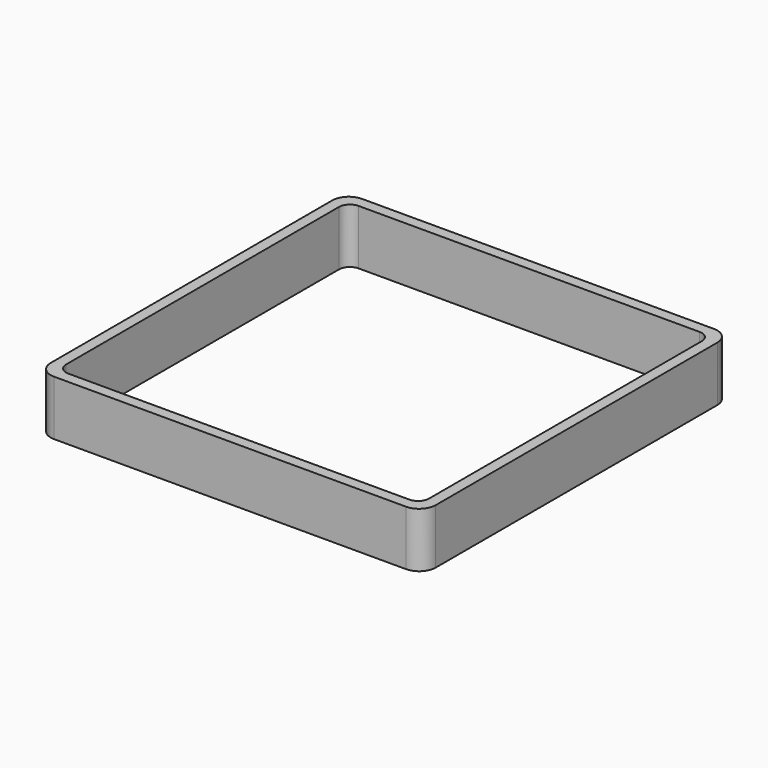
from build123d import *

# Parameters (mm, degrees)
EXTRUDE_DEPTH = 50


with BuildPart() as part:
    # Sketch → Extrude (new body)
    with BuildSketch(Plane.XY):
        with BuildLine():
            Line((-160, 175), (160, 175))
            ThreePointArc((175, 160), (170.606602, 170.606602), (160, 175))
            Line((175, 160), (175, -160))
            ThreePointArc((160, -175), (170.606602, -170.606602), (175, -160))
            Line((160, -175), (-160, -175))
            ThreePointArc((-175, -160), (-170.606602, -170.606602), (-160, -175))
            Line((-175, -160), (-175, 160))
            ThreePointArc((-160, 175), (-170.606602, 170.606602), (-175, 160))
        make_face()
        with BuildLine():
            Line((-155, 165), (155, 165))
            ThreePointArc((165, 155), (162.071068, 162.071068), (155, 165))
            Line((165, 155), (165, -155))
            ThreePointArc((155, -165), (162.071068, -162.071068), (165, -155))
            Line((155, -165), (-155, -165))
            ThreePointArc((-165, -155), (-162.071068, -162.071068), (-155, -165))
            Line((-165, -155), (-165, 155))
            ThreePointArc((-155, 165), (-162.071068, 162.071068), (-165, 155))
        make_face(mode=Mode.SUBTRACT)
    extrude(amount=EXTRUDE_DEPTH)


solid = part.part
